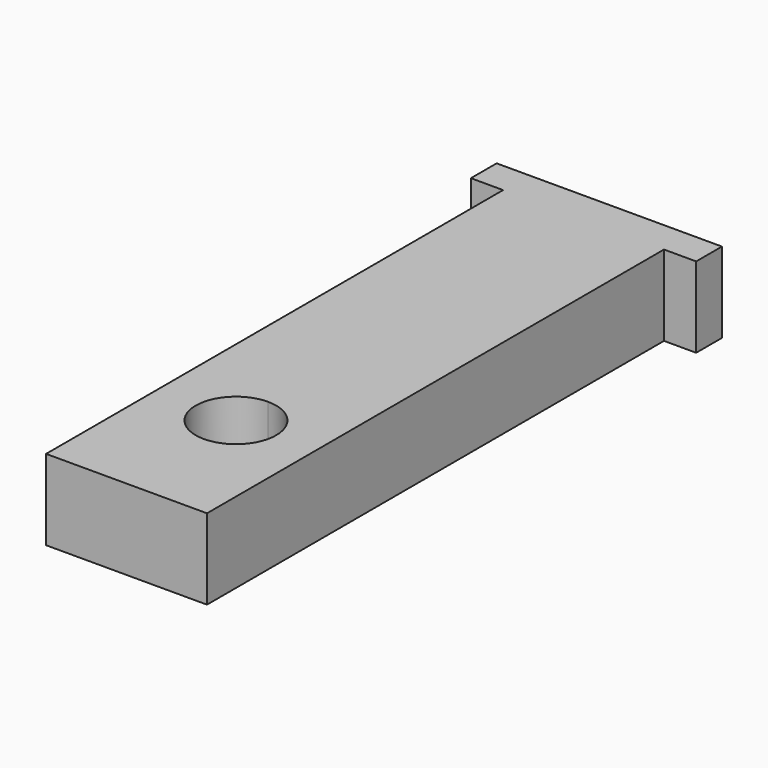
from build123d import *

# Parameters (mm, degrees)
F1_DEPTH = 6.35


with BuildPart() as f1:
    # F0 (on Top) → F1 (new body)
    with BuildSketch(Plane.XY):
        with BuildLine():
            Line((34.47086, -2.110446), (34.47086, -9.730446))
            Line((34.47086, -9.730446), (40.82086, -9.730446))
            Line((40.82086, -9.730446), (40.82086, 35.354554))
            Line((40.82086, 35.354554), (43.36086, 35.354554))
            Line((43.36086, 35.354554), (43.36086, 37.894554))
            Line((43.36086, 37.894554), (34.47086, 37.894554))
            Line((34.47086, 37.894554), (34.47086, 35.354554))
            Line((34.47086, 35.354554), (34.47086, 4.239554))
            ThreePointArc((34.47086, 4.239554), (36.715924, 3.309618), (37.64586, 1.064554))
            ThreePointArc((37.64586, 1.064554), (36.715924, -1.18051), (34.47086, -2.110446))
        make_face()
        with BuildLine():
            Line((28.12086, -9.730446), (34.47086, -9.730446))
            Line((34.47086, -9.730446), (34.47086, -2.110446))
            ThreePointArc((34.47086, -2.110446), (31.29586, 1.064554), (34.47086, 4.239554))
            Line((34.47086, 4.239554), (34.47086, 35.354554))
            Line((34.47086, 35.354554), (34.47086, 37.894554))
            Line((34.47086, 37.894554), (25.58086, 37.894554))
            Line((25.58086, 37.894554), (25.58086, 35.354554))
            Line((25.58086, 35.354554), (28.12086, 35.354554))
            Line((28.12086, 35.354554), (28.12086, -9.730446))
        make_face()
    extrude(amount=F1_DEPTH)


solid = f1.part
